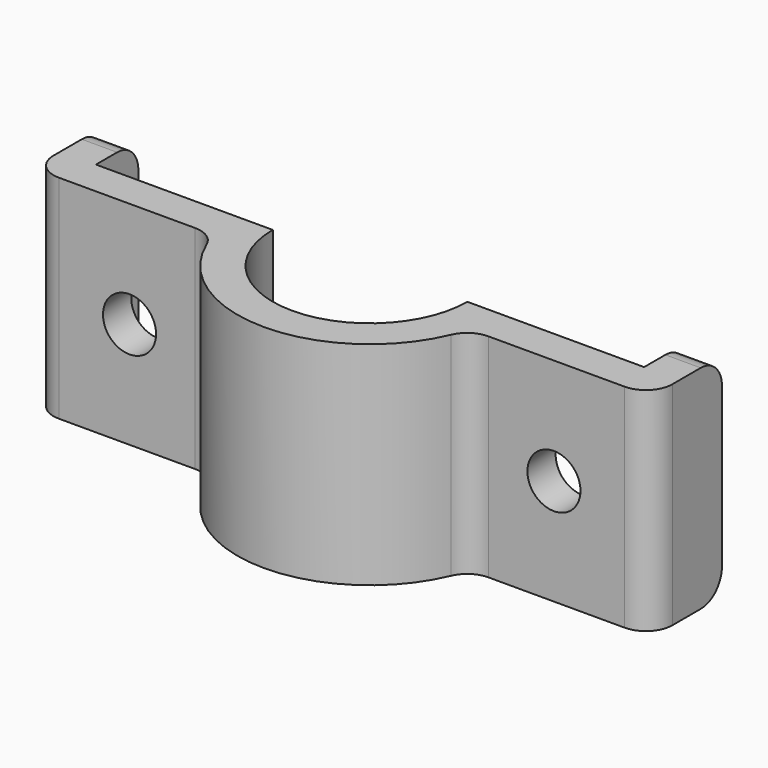
from build123d import *

# Parameters (mm, degrees)
F1_DEPTH = 76.2
F2_R     = 9.525
F3_DEPTH = 25.4
F4_R     = 9.525
F5_R     = 9.525
F6_R     = 9.525


with BuildPart() as f1:
    # F0 (on Top) → F1 (new body)
    with BuildSketch(Plane.XY):
        with BuildLine():
            ThreePointArc((-52.651419, -12.7), (-47.386277, -14.2875), (-43.876182, -18.520833))
            ThreePointArc((-43.876182, -18.520833), (0, -47.625), (43.876182, -18.520833))
            ThreePointArc((43.876182, -18.520833), (47.386277, -14.2875), (52.651419, -12.7))
            Line((52.651419, -12.7), (101.6, -12.7))
            ThreePointArc((101.6, -12.7), (108.335192, -9.910192), (111.125, -3.175))
            Line((111.125, -3.175), (111.125, 0))
            Line((111.125, 0), (111.125, 19.05))
            Line((111.125, 19.05), (98.425, 19.05))
            Line((98.425, 19.05), (98.425, 0))
            Line((98.425, 0), (47.625, 0))
            Line((47.625, 0), (34.925, 0))
            ThreePointArc((34.925, 0), (0, -34.925), (-34.925, 0))
            Line((-34.925, 0), (-47.625, 0))
            Line((-47.625, 0), (-98.425, 0))
            Line((-98.425, 0), (-98.425, 19.05))
            Line((-98.425, 19.05), (-111.125, 19.05))
            Line((-111.125, 19.05), (-111.125, 0))
            Line((-111.125, 0), (-111.125, -3.175))
            ThreePointArc((-111.125, -3.175), (-108.335192, -9.910192), (-101.6, -12.7))
            Line((-101.6, -12.7), (-52.651419, -12.7))
        make_face()
    extrude(amount=F1_DEPTH)

    # F2 (on face) → F3 (cut)
    with BuildSketch(Plane.XZ.offset(12.7)):
        with Locations((-76.2, 38.1)):
            Circle(F2_R)
        with Locations((76.2, 38.1)):
            Circle(F2_R)
    extrude(amount=-F3_DEPTH, mode=Mode.SUBTRACT)

    # F4
    f4_edges = [f1.edges().sort_by_distance(p)[0] for p in [
        (104.775, 19.05, 76.2),
    ]]
    fillet(f4_edges, radius=F4_R)

    # F5
    f5_edges = [f1.edges().sort_by_distance(p)[0] for p in [
        (-104.775, 19.05, 76.2),
    ]]
    fillet(f5_edges, radius=F5_R)

    # F6
    f6_edges = [f1.edges().sort_by_distance(p)[0] for p in [
        (104.775, 19.05, 0),
        (-104.775, 19.05, 0),
    ]]
    fillet(f6_edges, radius=F6_R)


solid = f1.part
